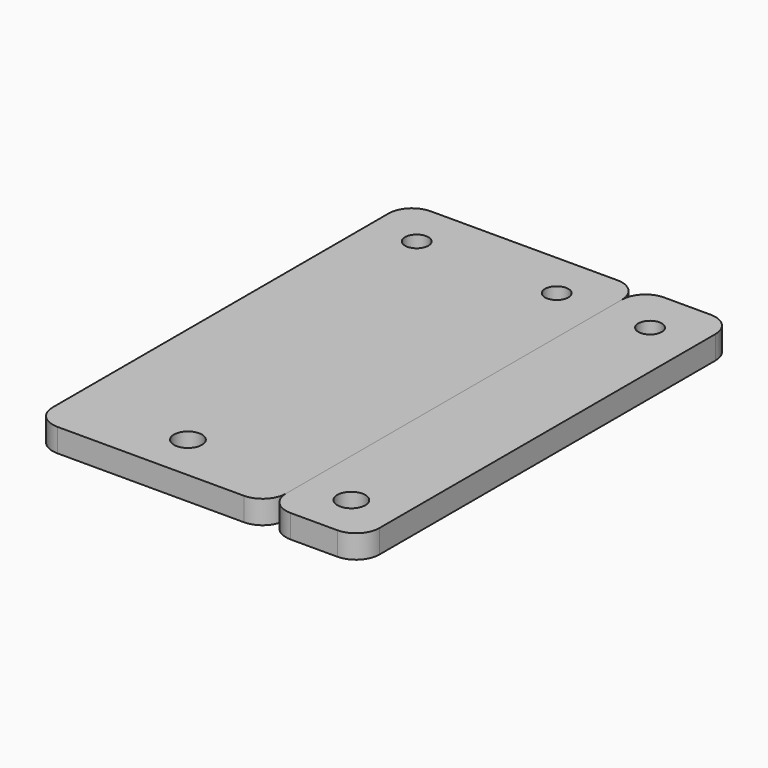
from build123d import *

# Parameters (mm, degrees)
F0_R     = 3
F0_R_2   = 2.5
F1_DEPTH = 5
F2_R     = 3
F2_R_2   = 2.5
F3_DEPTH = 5


with BuildPart() as f1:
    # F0 (on Top) → F1 (new body)
    with BuildSketch(Plane.XY):
        with BuildLine():
            ThreePointArc((0, 5), (1.464466, 1.464466), (5, 0))
            Line((5, 0), (15, 0))
            ThreePointArc((15, 0), (18.535534, 1.464466), (20, 5))
            Line((20, 5), (20, 95))
            ThreePointArc((20, 95), (18.535534, 98.535534), (15, 100))
            Line((15, 100), (5, 100))
            ThreePointArc((5, 100), (1.464466, 98.535534), (0, 95))
            Line((0, 95), (0, 5))
        make_face()
        with Locations((10, 10)):
            Circle(F0_R, mode=Mode.SUBTRACT)
        with Locations((10, 90)):
            Circle(F0_R_2, mode=Mode.SUBTRACT)
    extrude(amount=F1_DEPTH)


with BuildPart() as f3:
    # F2 (on Top) → F3 (new body)
    with BuildSketch(Plane.XY):
        with BuildLine():
            Line((-45, 0), (-5, 0))
            ThreePointArc((-5, 0), (-1.464466, 1.464466), (0, 5))
            Line((0, 5), (0, 95))
            ThreePointArc((0, 95), (-1.464466, 98.535534), (-5, 100))
            Line((-5, 100), (-45, 100))
            ThreePointArc((-45, 100), (-48.535534, 98.535534), (-50, 95))
            Line((-50, 95), (-50, 5))
            ThreePointArc((-50, 5), (-48.535534, 1.464466), (-45, 0))
        make_face()
        with Locations((-25, 10)):
            Circle(F2_R, mode=Mode.SUBTRACT)
        with Locations((-40, 90)):
            Circle(F2_R_2, mode=Mode.SUBTRACT)
        with Locations((-10, 90)):
            Circle(F2_R_2, mode=Mode.SUBTRACT)
    extrude(amount=F3_DEPTH)


solid = Compound([f1.part, f3.part])
